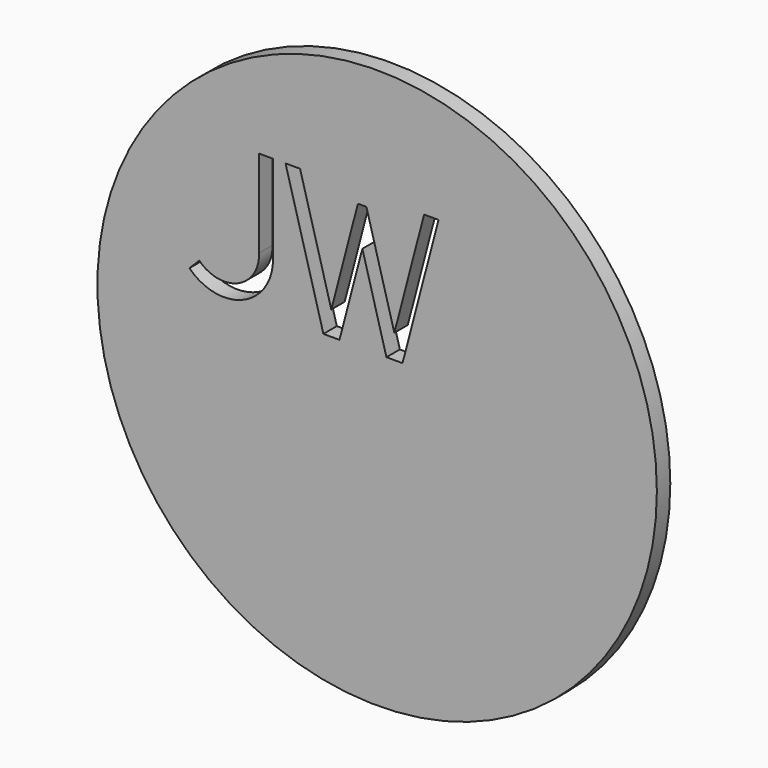
from build123d import *

# Parameters (mm, degrees)
F0_R     = 25.4
F1_DEPTH = 1.524


with BuildPart() as f1:
    # F0 (on Front) → F1 (new body)
    with BuildSketch(Plane.XZ):
        Circle(F0_R)
        with BuildLine():
            Line((-10.722334, 7.286357), (-10.722334, 15.24))
            Line((-10.722334, 15.24), (-9.452334, 15.24))
            Line((-9.452334, 15.24), (-9.456435, 7.166546))
            ThreePointArc((-9.456435, 7.166546), (-12.20241, 3.061331), (-17.045993, 4.027183))
            Line((-17.045993, 4.027183), (-16.151985, 4.920356))
            ThreePointArc((-16.151985, 4.920356), (-12.630592, 4.252393), (-10.722334, 7.286357))
        make_face(mode=Mode.SUBTRACT)
        Polygon((-4.88111, 2.723804), (-8.317264, 15.24), (-7.000273, 15.24), (-4.163434, 4.906811), (-1.746424, 14.153804), (-0.977187, 14.153804), (1.561451, 4.906811), (4.262375, 15.24), (5.575043, 15.24), (2.303517, 2.723804), (0.843776, 2.723804), (-1.341137, 10.682351), (-3.421369, 2.723804), align=None, mode=Mode.SUBTRACT)
    extrude(amount=F1_DEPTH)


solid = f1.part
